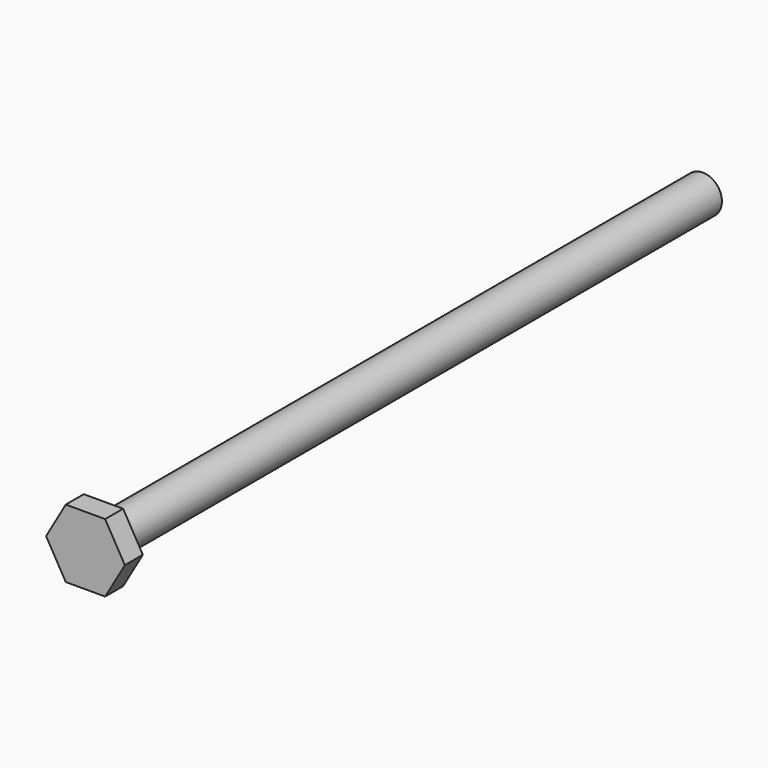
from build123d import *

# Parameters (mm, degrees)
F0_R     = 3.895446
F1_DEPTH = 152.4
F5_DEPTH = 4.572


with BuildPart() as f1:
    # F0 (on Front) → F1 (new body)
    with BuildSketch(Plane.XZ):
        with Locations((-66.586629, 45.847487)):
            Circle(F0_R)
    extrude(amount=F1_DEPTH)

    # F2 (on face) → F5 (join)
    with BuildSketch(Plane.XZ.offset(152.4)):
        Polygon((-70.592547, 38.909033), (-62.58071, 38.909033), (-58.574792, 45.847487), (-62.58071, 52.78594), (-70.592547, 52.78594), (-74.598465, 45.847487), align=None)
    extrude(amount=F5_DEPTH)


with BuildPart() as f3_1:
    # F3: copy of F1
    add(f1.part.moved(Location((-51.054, 57.15, -154.94))))


solid = f1.part
